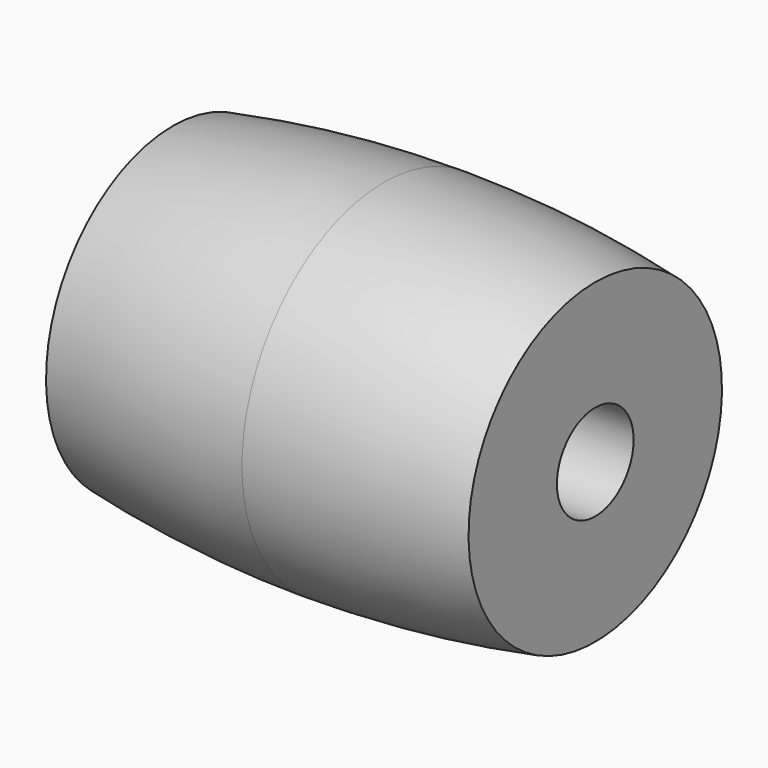
from build123d import *


with BuildPart() as f1:
    # F0 (on Front) → F1 (revolve)
    with BuildSketch(Plane.XZ):
        with BuildLine():
            Line((5.95, 29.457), (5.95, 32.567944))
            ThreePointArc((5.95, 32.567944), (2.987184, 32.97196), (0, 33.107))
            Line((0, 33.107), (0, 29.457))
            Line((0, 29.457), (5.95, 29.457))
        make_face()
        with BuildLine():
            ThreePointArc((0, 33.107), (-2.987184, 32.97196), (-5.95, 32.567944))
            Line((-5.95, 32.567944), (-5.95, 29.457))
            Line((-5.95, 29.457), (0, 29.457))
            Line((0, 29.457), (0, 33.107))
        make_face()
    revolve(axis=Axis((0, 0, 28.107), (-1, 0, 0)))


solid = f1.part
